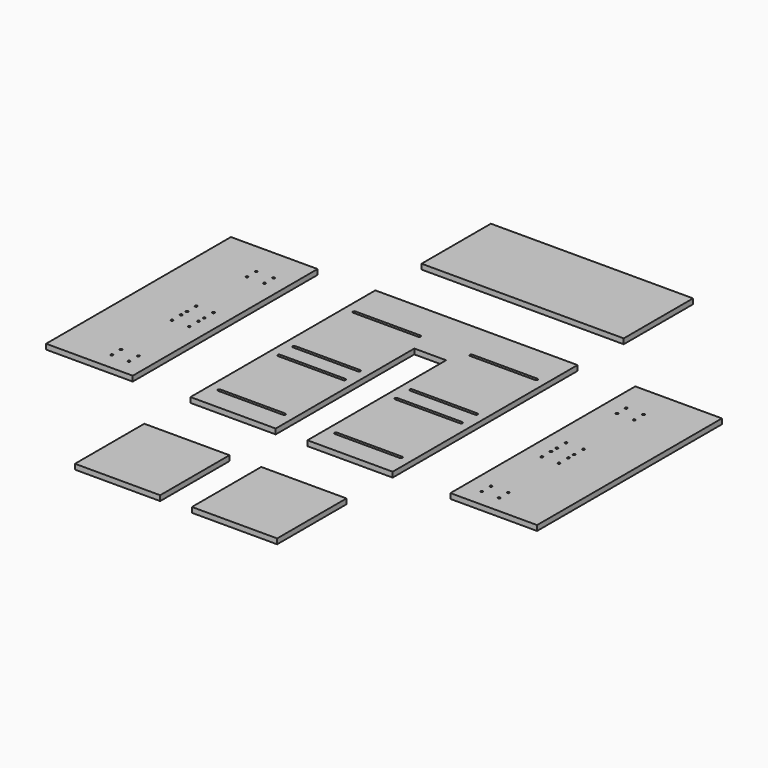
from build123d import *

# Parameters (mm, degrees)
F1_W     = 300
F1_H     = 800
F1_R     = 4
F1_W_2   = 295
F1_H_2   = 300
F1_W_3   = 700
F2_DEPTH = 18


with BuildPart() as f2:
    # F1 (on Top) → F2 (new body)
    with BuildSketch(Plane.XY):
        with Locations((650, 1400)):
            Rectangle(F1_W, F1_H)
        with BuildLine():
            ThreePointArc((683.647775, 1060), (676.819348, 1057.171573), (679.647775, 1064))
            ThreePointArc((679.647775, 1064), (682.476202, 1062.828427), (683.647775, 1060))
        make_face(mode=Mode.SUBTRACT)
        with BuildLine():
            ThreePointArc((683.647775, 1100), (682.476202, 1097.171573), (679.647775, 1096))
            ThreePointArc((679.647775, 1096), (676.819348, 1102.828427), (683.647775, 1100))
        make_face(mode=Mode.SUBTRACT)
        with BuildLine():
            ThreePointArc((743.647775, 1060), (736.819348, 1057.171573), (739.647775, 1064))
            ThreePointArc((739.647775, 1064), (742.476202, 1062.828427), (743.647775, 1060))
        make_face(mode=Mode.SUBTRACT)
        with BuildLine():
            ThreePointArc((743.647775, 1100), (742.476202, 1097.171573), (739.647775, 1096))
            ThreePointArc((739.647775, 1096), (736.819348, 1102.828427), (743.647775, 1100))
        make_face(mode=Mode.SUBTRACT)
        with BuildLine():
            ThreePointArc((683.647775, 1320), (676.819348, 1317.171573), (679.647775, 1324))
            ThreePointArc((679.647775, 1324), (682.476202, 1322.828427), (683.647775, 1320))
        make_face(mode=Mode.SUBTRACT)
        with BuildLine():
            ThreePointArc((679.647775, 1356), (676.819348, 1362.828427), (683.647775, 1360))
            ThreePointArc((683.647775, 1360), (682.476202, 1357.171573), (679.647775, 1356))
        make_face(mode=Mode.SUBTRACT)
        with BuildLine():
            ThreePointArc((683.647775, 1385), (676.819348, 1382.171573), (679.647775, 1389))
            ThreePointArc((679.647775, 1389), (682.476202, 1387.828427), (683.647775, 1385))
        make_face(mode=Mode.SUBTRACT)
        with BuildLine():
            ThreePointArc((743.647775, 1320), (736.819348, 1317.171573), (739.647775, 1324))
            ThreePointArc((739.647775, 1324), (742.476202, 1322.828427), (743.647775, 1320))
        make_face(mode=Mode.SUBTRACT)
        with BuildLine():
            ThreePointArc((739.647775, 1356), (736.819348, 1357.171573), (735.647775, 1360))
            ThreePointArc((735.647775, 1360), (739.647775, 1364), (743.647775, 1360))
            ThreePointArc((743.647775, 1360), (742.476202, 1357.171573), (739.647775, 1356))
        make_face(mode=Mode.SUBTRACT)
        with BuildLine():
            ThreePointArc((743.647775, 1385), (736.819348, 1382.171573), (739.647775, 1389))
            ThreePointArc((739.647775, 1389), (742.476202, 1387.828427), (743.647775, 1385))
        make_face(mode=Mode.SUBTRACT)
        with BuildLine():
            ThreePointArc((683.647775, 1425), (682.476202, 1422.171573), (679.647775, 1421))
            ThreePointArc((679.647775, 1421), (676.819348, 1427.828427), (683.647775, 1425))
        make_face(mode=Mode.SUBTRACT)
        with BuildLine():
            ThreePointArc((743.647775, 1425), (742.476202, 1422.171573), (739.647775, 1421))
            ThreePointArc((739.647775, 1421), (736.819348, 1427.828427), (743.647775, 1425))
        make_face(mode=Mode.SUBTRACT)
        with BuildLine():
            ThreePointArc((683.647775, 1645), (676.819348, 1642.171573), (679.647775, 1649))
            ThreePointArc((679.647775, 1649), (682.476202, 1647.828427), (683.647775, 1645))
        make_face(mode=Mode.SUBTRACT)
        with BuildLine():
            ThreePointArc((683.647775, 1685), (682.476202, 1682.171573), (679.647775, 1681))
            ThreePointArc((679.647775, 1681), (676.819348, 1687.828427), (683.647775, 1685))
        make_face(mode=Mode.SUBTRACT)
        with BuildLine():
            ThreePointArc((743.647775, 1645), (736.819348, 1642.171573), (739.647775, 1649))
            ThreePointArc((739.647775, 1649), (742.476202, 1647.828427), (743.647775, 1645))
        make_face(mode=Mode.SUBTRACT)
        with BuildLine():
            ThreePointArc((743.647775, 1685), (742.476202, 1682.171573), (739.647775, 1681))
            ThreePointArc((739.647775, 1681), (736.819348, 1687.828427), (743.647775, 1685))
        make_face(mode=Mode.SUBTRACT)
        Polygon((1000, 1800), (1000, 1000), (1295, 1000), (1295, 1600), (1405, 1600), (1405, 1000), (1700, 1000), (1700, 1800), align=None)
        with BuildLine():
            Line((1260, 1075), (1035, 1075))
            ThreePointArc((1035, 1075), (1030, 1080), (1035, 1085))
            Line((1035, 1085), (1260, 1085))
            ThreePointArc((1260, 1085), (1265, 1080), (1260, 1075))
        make_face(mode=Mode.SUBTRACT)
        with BuildLine():
            Line((1035, 1345), (1260, 1345))
            ThreePointArc((1260, 1345), (1265, 1340), (1260, 1335))
            Line((1260, 1335), (1035, 1335))
            ThreePointArc((1035, 1335), (1030, 1340), (1035, 1345))
        make_face(mode=Mode.SUBTRACT)
        with BuildLine():
            Line((1440, 1085), (1665, 1085))
            ThreePointArc((1665, 1085), (1670, 1080), (1665, 1075))
            Line((1665, 1075), (1440, 1075))
            ThreePointArc((1440, 1075), (1435, 1080), (1440, 1085))
        make_face(mode=Mode.SUBTRACT)
        with BuildLine():
            Line((1665, 1335), (1440, 1335))
            ThreePointArc((1440, 1335), (1435, 1340), (1440, 1345))
            Line((1440, 1345), (1665, 1345))
            ThreePointArc((1665, 1345), (1670, 1340), (1665, 1335))
        make_face(mode=Mode.SUBTRACT)
        with BuildLine():
            Line((1035, 1410), (1260, 1410))
            ThreePointArc((1260, 1410), (1265, 1405), (1260, 1400))
            Line((1260, 1400), (1035, 1400))
            ThreePointArc((1035, 1400), (1030, 1405), (1035, 1410))
        make_face(mode=Mode.SUBTRACT)
        with BuildLine():
            Line((1035, 1670), (1260, 1670))
            ThreePointArc((1260, 1670), (1265, 1665), (1260, 1660))
            Line((1260, 1660), (1035, 1660))
            ThreePointArc((1035, 1660), (1030, 1665), (1035, 1670))
        make_face(mode=Mode.SUBTRACT)
        with BuildLine():
            Line((1665, 1400), (1440, 1400))
            ThreePointArc((1440, 1400), (1435, 1405), (1440, 1410))
            Line((1440, 1410), (1665, 1410))
            ThreePointArc((1665, 1410), (1670, 1405), (1665, 1400))
        make_face(mode=Mode.SUBTRACT)
        with BuildLine():
            Line((1665, 1660), (1440, 1660))
            ThreePointArc((1440, 1660), (1435, 1665), (1440, 1670))
            Line((1440, 1670), (1665, 1670))
            ThreePointArc((1665, 1670), (1670, 1665), (1665, 1660))
        make_face(mode=Mode.SUBTRACT)
        with Locations((2050, 1400)):
            Rectangle(F1_W, F1_H)
        with Locations((1960.352225, 1060)):
            Circle(F1_R, mode=Mode.SUBTRACT)
        with Locations((1960.352225, 1100)):
            Circle(F1_R, mode=Mode.SUBTRACT)
        with Locations((2020.352225, 1060)):
            Circle(F1_R, mode=Mode.SUBTRACT)
        with Locations((2020.352225, 1100)):
            Circle(F1_R, mode=Mode.SUBTRACT)
        with Locations((1960.352225, 1320)):
            Circle(F1_R, mode=Mode.SUBTRACT)
        with Locations((1960.352225, 1360)):
            Circle(F1_R, mode=Mode.SUBTRACT)
        with Locations((1960.352225, 1385)):
            Circle(F1_R, mode=Mode.SUBTRACT)
        with Locations((2020.352225, 1320)):
            Circle(F1_R, mode=Mode.SUBTRACT)
        with Locations((2020.352225, 1360)):
            Circle(F1_R, mode=Mode.SUBTRACT)
        with Locations((2020.352225, 1385)):
            Circle(F1_R, mode=Mode.SUBTRACT)
        with Locations((1960.352225, 1425)):
            Circle(F1_R, mode=Mode.SUBTRACT)
        with Locations((2020.352225, 1425)):
            Circle(F1_R, mode=Mode.SUBTRACT)
        with Locations((1960.352225, 1645)):
            Circle(F1_R, mode=Mode.SUBTRACT)
        with Locations((1960.352225, 1685)):
            Circle(F1_R, mode=Mode.SUBTRACT)
        with Locations((2020.352225, 1645)):
            Circle(F1_R, mode=Mode.SUBTRACT)
        with Locations((2020.352225, 1685)):
            Circle(F1_R, mode=Mode.SUBTRACT)
        with Locations((1552.5, 650)):
            Rectangle(F1_W_2, F1_H_2)
        with Locations((1147.5, 650)):
            Rectangle(F1_W_2, F1_H_2)
        with Locations((1350, 2150)):
            Rectangle(F1_W_3, F1_H_2)
    extrude(amount=F2_DEPTH)


solid = f2.part
